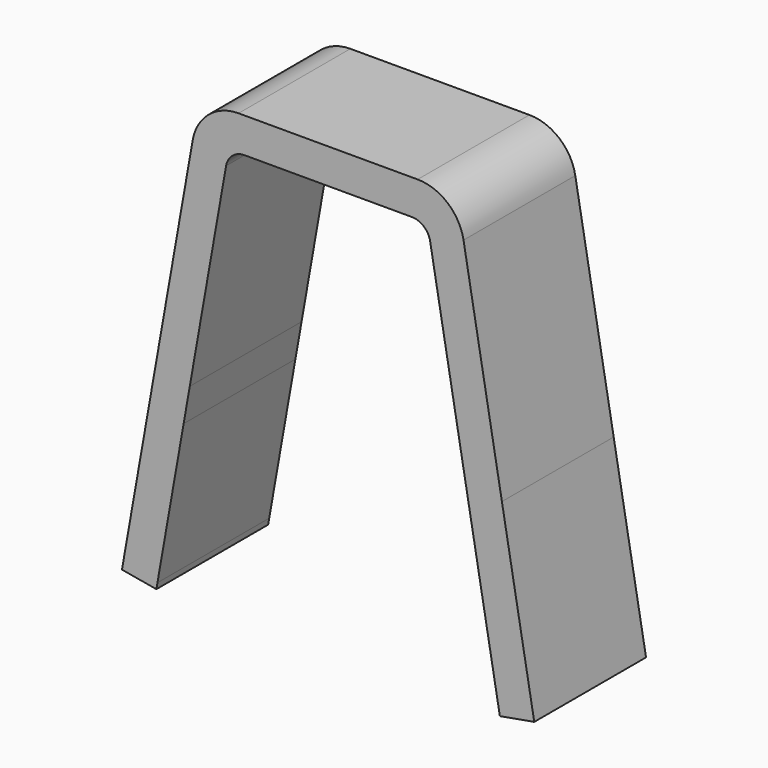
from build123d import *

# Parameters (mm, degrees)
F1_DEPTH = 38.1
F2_R     = 5.08
F3_R     = 12.7


with BuildPart() as f1:
    # F0 (on Front) → F1 (new body)
    with BuildSketch(Plane.XZ):
        Polygon((47.388378, -28.077184), (35.071938, 41.772816), (-35.071938, 41.772816), (-47.388378, -28.077184), (-56.209706, -78.105418), (-46.829412, -79.759417), (-46.537767, -78.105418), (-39.395954, -37.602184), (-37.71644, -28.077184), (-27.079514, 32.247816), (27.079514, 32.247816), (37.71644, -28.077184), (39.395954, -37.602184), (46.537767, -78.105418), (46.829412, -79.759417), (56.209706, -78.105418), align=None)
    extrude(amount=F1_DEPTH)

    # F2
    f2_edges = [f1.edges().sort_by_distance(p)[0] for p in [
        (-27.079514, -19.05, 32.247816),
        (27.079514, -19.05, 32.247816),
    ]]
    fillet(f2_edges, radius=F2_R)

    # F3
    f3_edges = [f1.edges().sort_by_distance(p)[0] for p in [
        (-35.071938, -19.05, 41.772816),
        (35.071938, -19.05, 41.772816),
    ]]
    fillet(f3_edges, radius=F3_R)


solid = f1.part
